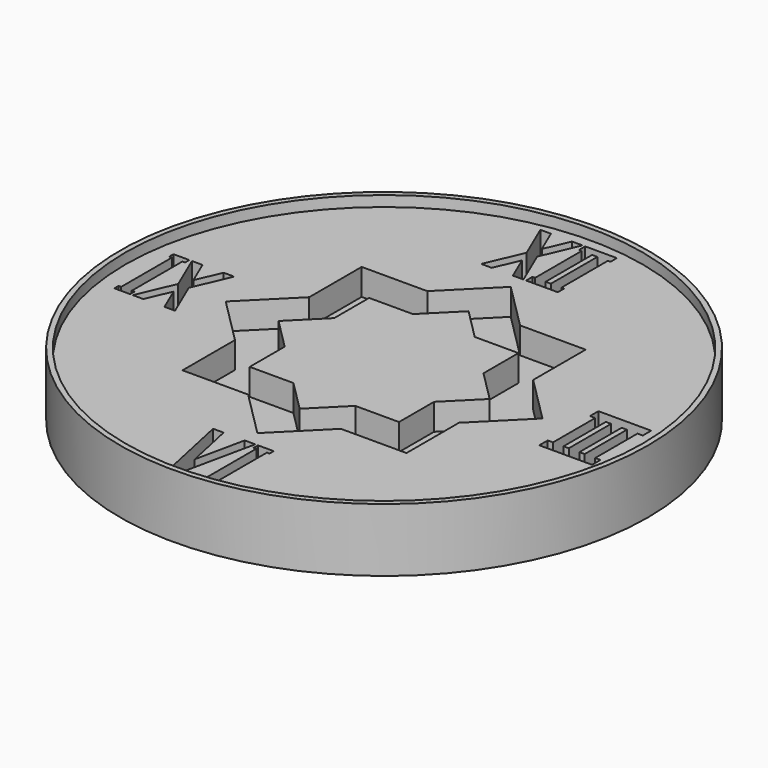
from build123d import *

# Parameters (mm, degrees)
F0_R      = 500
F1_DEPTH  = 100
F2_R      = 10
F3_DEPTH  = 100.001
F4_W      = 20
F4_H      = 15
F4_W_2    = 5
F4_W_3    = 10
F4_H_2    = 110
F5_DEPTH  = 50
F6_W      = 20
F6_H      = 20
F6_W_2    = 10
F6_H_2    = 100
F7_DEPTH  = 50
F8_W      = 20
F8_H      = 110
F9_DEPTH  = 50
F10_W     = 20
F10_H     = 10
F10_W_2   = 5
F10_H_2   = 120
F11_DEPTH = 50
F12_W     = 20
F12_H     = 10
F12_W_2   = 5
F12_H_2   = 120
F13_DEPTH = 50
F14_R     = 10
F15_DEPTH = 10
F16_R     = 500
F16_R_2   = 490
F17_DEPTH = 20
F19_DEPTH = 50
F21_DEPTH = 50


with BuildPart() as f1:
    # F0 (on Top) → F1 (new body)
    with BuildSketch(Plane.XY):
        Circle(F0_R)
    extrude(amount=F1_DEPTH)

    # F2 (on face) → F3 (cut, through all)
    with BuildSketch(Plane.XY.offset(100)):
        Circle(F2_R)
    extrude(amount=-F3_DEPTH, mode=Mode.SUBTRACT)

    # F4 (on face) → F5 (cut)
    with BuildSketch(Plane.XY.offset(100)):
        Polygon((-60, 470), (-80, 470), (-50, 400), (-40, 423.3333333333), align=None)
        Polygon((-40, 423.3333333333), (-50, 400), (-40, 376.6666666667), (-30, 400), align=None)
        Polygon((-40, 376.6666666667), (-50, 400), (-80, 330), (-60, 330), align=None)
        Polygon((-30, 400), (-40, 376.6666666667), (-20, 330), (0, 330), align=None)
        Polygon((-20, 470), (-40, 423.3333333333), (-30, 400), (0, 470), align=None)
        with Locations((20, 462.5)):
            Rectangle(F4_W, F4_H)
        with Locations((7.5, 462.5)):
            Rectangle(F4_W_2, F4_H)
        with Locations((35, 462.5)):
            Rectangle(F4_W_3, F4_H)
        with Locations((20, 400)):
            Rectangle(F4_W, F4_H_2)
        with Locations((50, 462.5)):
            Rectangle(F4_W, F4_H)
        with Locations((20, 337.5)):
            Rectangle(F4_W, F4_H)
        with Locations((7.5, 337.5)):
            Rectangle(F4_W_2, F4_H)
        with Locations((35, 337.5)):
            Rectangle(F4_W_3, F4_H)
        with Locations((50, 400)):
            Rectangle(F4_W, F4_H_2)
        with Locations((62.5, 462.5)):
            Rectangle(F4_W_2, F4_H)
        with Locations((50, 337.5)):
            Rectangle(F4_W, F4_H)
        with Locations((62.5, 337.5)):
            Rectangle(F4_W_2, F4_H)
    extrude(amount=-F5_DEPTH, mode=Mode.SUBTRACT)

    # F6 (on face) → F7 (cut)
    with BuildSketch(Plane.XY.offset(100)):
        with Locations((400, 60)):
            Rectangle(F6_W, F6_H)
        with Locations((385, 60)):
            Rectangle(F6_W_2, F6_H)
        with Locations((415, 60)):
            Rectangle(F6_W_2, F6_H)
        with Locations((370, 60)):
            Rectangle(F6_W, F6_H)
        with Locations((430, 60)):
            Rectangle(F6_W, F6_H)
        with Locations((400, -60)):
            Rectangle(F6_W, F6_H)
        with Locations((385, -60)):
            Rectangle(F6_W_2, F6_H)
        with Locations((370, 0)):
            Rectangle(F6_W, F6_H_2)
        with Locations((355, 60)):
            Rectangle(F6_W_2, F6_H)
        with Locations((415, -60)):
            Rectangle(F6_W_2, F6_H)
        with Locations((430, 0)):
            Rectangle(F6_W, F6_H_2)
        with Locations((445, 60)):
            Rectangle(F6_W_2, F6_H)
        with Locations((370, -60)):
            Rectangle(F6_W, F6_H)
        with Locations((430, -60)):
            Rectangle(F6_W, F6_H)
        with Locations((355, -60)):
            Rectangle(F6_W_2, F6_H)
        with Locations((445, -60)):
            Rectangle(F6_W_2, F6_H)
    extrude(amount=-F7_DEPTH, mode=Mode.SUBTRACT)

    # F8 (on face) → F9 (cut)
    with BuildSketch(Plane.XY.offset(100)):
        with Locations((400, 0)):
            Rectangle(F8_W, F8_H)
    extrude(amount=-F9_DEPTH, mode=Mode.SUBTRACT)

    # F10 (on face) → F11 (cut)
    with BuildSketch(Plane.XY.offset(100)):
        Polygon((-40, -330), (-60, -330), (-30, -470), (-20, -423.3333333333), align=None)
        Polygon((-20, -423.3333333333), (-30, -470), (-10, -470), align=None)
        Polygon((0, -330), (-20, -423.3333333333), (-10, -470), (20, -330), align=None)
        with Locations((40, -335)):
            Rectangle(F10_W, F10_H)
        with Locations((27.5, -335)):
            Rectangle(F10_W_2, F10_H)
        with Locations((52.5, -335)):
            Rectangle(F10_W_2, F10_H)
        with Locations((40, -400)):
            Rectangle(F10_W, F10_H_2)
        with Locations((40, -465)):
            Rectangle(F10_W, F10_H)
        with Locations((27.5, -465)):
            Rectangle(F10_W_2, F10_H)
        with Locations((52.5, -465)):
            Rectangle(F10_W_2, F10_H)
    extrude(amount=-F11_DEPTH, mode=Mode.SUBTRACT)

    # F12 (on face) → F13 (cut)
    with BuildSketch(Plane.XY.offset(100)):
        Polygon((-400, 70), (-420, 70), (-390, 0), (-380, 23.3333333333), align=None)
        Polygon((-380, 23.3333333333), (-390, 0), (-380, -23.3333333333), (-370, 0), align=None)
        Polygon((-380, -23.3333333333), (-390, 0), (-420, -70), (-400, -70), align=None)
        Polygon((-370, 0), (-380, -23.3333333333), (-360, -70), (-340, -70), align=None)
        Polygon((-360, 70), (-380, 23.3333333333), (-370, 0), (-340, 70), align=None)
        with Locations((-440, 65)):
            Rectangle(F12_W, F12_H)
        with Locations((-452.5, 65)):
            Rectangle(F12_W_2, F12_H)
        with Locations((-427.5, 65)):
            Rectangle(F12_W_2, F12_H)
        with Locations((-440, 0)):
            Rectangle(F12_W, F12_H_2)
        with Locations((-440, -65)):
            Rectangle(F12_W, F12_H)
        with Locations((-452.5, -65)):
            Rectangle(F12_W_2, F12_H)
        with Locations((-427.5, -65)):
            Rectangle(F12_W_2, F12_H)
    extrude(amount=-F13_DEPTH, mode=Mode.SUBTRACT)

    # F14 (on face) → F15 (cut)
    with BuildSketch(Plane(origin=(0, 0, 0), x_dir=(1, 0, 0), z_dir=(0, 0, -1))):
        with Locations((-230, 0)):
            Circle(F14_R)
    extrude(amount=-F15_DEPTH, mode=Mode.SUBTRACT)

    # F16 (on face) → F17 (join)
    with BuildSketch(Plane.XY.offset(100)):
        Circle(F16_R)
        Circle(F16_R_2, mode=Mode.SUBTRACT)
    extrude(amount=F17_DEPTH)

    # F18 (on face) → F19 (cut)
    with BuildSketch(Plane.XY.offset(100)):
        Polygon((87.867965, 212.132035), (0, 300), (-87.867965, 212.132035), align=None)
        Polygon((87.867965, 212.132035), (-87.867965, 212.132035), (-212.132035, 87.867965), (-212.132035, -87.867965), (-87.867965, -212.132035), (87.867965, -212.132035), (212.132035, -87.867965), (212.132035, 87.867965), align=None)
        Polygon((-212.132035, 87.867965), (-87.867965, 212.132035), (-212.132035, 212.132035), align=None)
        Polygon((212.132035, 212.132035), (87.867965, 212.132035), (212.132035, 87.867965), align=None)
        Polygon((-212.132035, -87.867965), (-212.132035, 87.867965), (-300, 0), align=None)
        Polygon((300, 0), (212.132035, 87.867965), (212.132035, -87.867965), align=None)
        Polygon((-87.867965, -212.132035), (-212.132035, -87.867965), (-212.132035, -212.132035), align=None)
        Polygon((212.132035, -212.132035), (212.132035, -87.867965), (87.867965, -212.132035), align=None)
        Polygon((87.867965, -212.132035), (-87.867965, -212.132035), (0, -300), align=None)
    extrude(amount=-F19_DEPTH, mode=Mode.SUBTRACT)

    # F20 (on face) → F21 (join)
    with BuildSketch(Plane.XY.offset(50)):
        Polygon((58.578645, 141.421355), (0, 200), (-58.578645, 141.421355), align=None)
        Polygon((58.578645, 141.421355), (-58.578645, 141.421355), (-141.421355, 58.578645), (-141.421355, -58.578645), (-58.578645, -141.421355), (58.578645, -141.421355), (141.421355, -58.578645), (141.421355, 58.578645), align=None)
        Polygon((-141.421355, 58.578645), (-58.578645, 141.421355), (-141.421355, 141.421355), align=None)
        Polygon((141.421355, 141.421355), (58.578645, 141.421355), (141.421355, 58.578645), align=None)
        Polygon((-141.421355, -58.578645), (-141.421355, 58.578645), (-200, 0), align=None)
        Polygon((200, 0), (141.421355, 58.578645), (141.421355, -58.578645), align=None)
        Polygon((-58.578645, -141.421355), (-141.421355, -58.578645), (-141.421355, -141.421355), align=None)
        Polygon((141.421355, -141.421355), (141.421355, -58.578645), (58.578645, -141.421355), align=None)
        Polygon((58.578645, -141.421355), (-58.578645, -141.421355), (0, -200), align=None)
    extrude(amount=F21_DEPTH)


solid = f1.part
